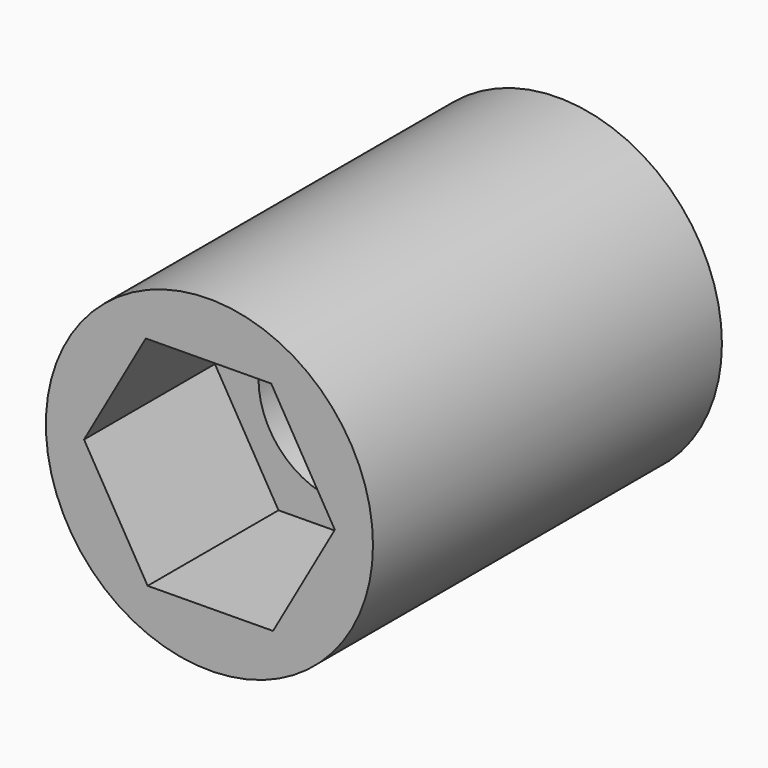
from build123d import *

# Parameters (mm, degrees)
F0_R     = 9.525
F1_DEPTH = 25.4
F3_DEPTH = 25.401
F4_DEPTH = 11.0998
F6_DEPTH = 9.525


with BuildPart() as f1:
    # F0 (on Front) → F1 (new body)
    with BuildSketch(Plane.XZ):
        Circle(F0_R)
    extrude(amount=-F1_DEPTH)

    # F2 (on face) → F3 (cut, through all)
    with BuildSketch(Plane(origin=(0, 25.4, 0), x_dir=(-1, 0, 0), z_dir=(0, 1, 0))):
        with BuildLine():
            ThreePointArc((-4.7625, 0), (-3.367596, -3.367596), (0, -4.7625))
            ThreePointArc((0, -4.7625), (3.367596, -3.367596), (4.7625, 0))
            ThreePointArc((4.7625, 0), (3.367596, 3.367596), (0, 4.7625))
            ThreePointArc((0, 4.7625), (-3.367596, 3.367596), (-4.7625, 0))
        make_face()
    extrude(amount=-F3_DEPTH, mode=Mode.SUBTRACT)

    # F2 (on face) → F4 (cut)
    with BuildSketch(Plane(origin=(0, 25.4, 0), x_dir=(-1, 0, 0), z_dir=(0, 1, 0))):
        with BuildLine():
            Line((0, -4.7625), (4.7625, -4.7625))
            Line((4.7625, -4.7625), (4.7625, 0))
            ThreePointArc((4.7625, 0), (3.367596, -3.367596), (0, -4.7625))
        make_face()
        with BuildLine():
            Line((-4.7625, -4.7625), (0, -4.7625))
            ThreePointArc((0, -4.7625), (-3.367596, -3.367596), (-4.7625, 0))
            Line((-4.7625, 0), (-4.7625, -4.7625))
        make_face()
        with BuildLine():
            ThreePointArc((0, 4.7625), (3.367596, 3.367596), (4.7625, 0))
            Line((4.7625, 0), (4.7625, 4.7625))
            Line((4.7625, 4.7625), (0, 4.7625))
        make_face()
        with BuildLine():
            Line((-4.7625, 4.7625), (-4.7625, 0))
            ThreePointArc((-4.7625, 0), (-3.367596, 3.367596), (0, 4.7625))
            Line((0, 4.7625), (-4.7625, 4.7625))
        make_face()
    extrude(amount=-F4_DEPTH, mode=Mode.SUBTRACT)

    # F5 (on face) → F6 (cut)
    with BuildSketch(Plane.XZ):
        Polygon((3.704864, -6.293196), (7.3025, 0.061908), (3.597636, 6.355105), (-3.704864, 6.293196), (-7.3025, -0.061908), (-3.597636, -6.355105), align=None)
    extrude(amount=-F6_DEPTH, mode=Mode.SUBTRACT)


solid = f1.part
